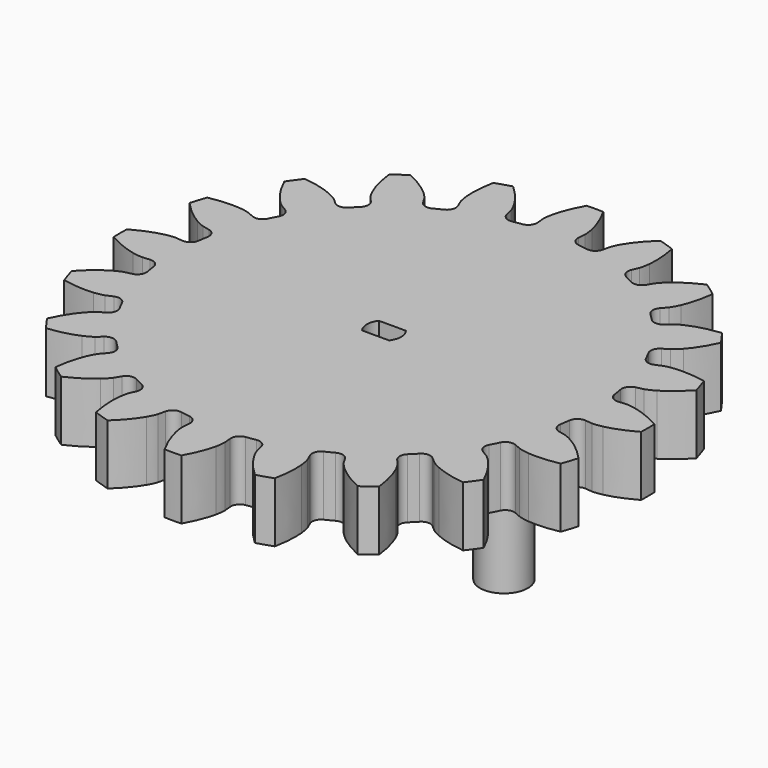
from build123d import *

# Parameters (mm, degrees)
PAD_DEPTH    = 10
POCKET_DEPTH = 10
SKETCH002_R  = 4
PAD001_DEPTH = 20
SKETCH003_R  = 4
PAD002_DEPTH = 20


with BuildPart() as part:
    # InvoluteGear → Pad (new body)
    with BuildSketch(Plane.XY):
        with BuildLine():
            Line((36.31006, -3.402875), (37.495418, -3.510949))
            add(Edge.make_bspline(
                [(37.495418, -3.510949), (37.684354, -3.516987), (38.253052, -3.51208), (39.201904, -3.30664)],
                knots=[0, 0, 0, 0, 1, 1, 1, 1], degree=3))
            add(Edge.make_bspline(
                [(39.201904, -3.30664), (40.336938, -3.057111), (41.97033, -2.52294), (43.982486, -1.38787)],
                knots=[0, 0, 0, 0, 1, 1, 1, 1], degree=3))
            ThreePointArc((43.982486, -1.38787), (44.00438, 0), (43.982486, 1.38787))
            add(Edge.make_bspline(
                [(43.982486, 1.38787), (41.97033, 2.52294), (40.336938, 3.057111), (39.201904, 3.30664)],
                knots=[0, 0, 0, 0, 1, 1, 1, 1], degree=3))
            add(Edge.make_bspline(
                [(39.201904, 3.30664), (38.253052, 3.51208), (37.684354, 3.516987), (37.495418, 3.510949)],
                knots=[0, 0, 0, 0, 1, 1, 1, 1], degree=3))
            Line((37.495418, 3.510949), (36.31006, 3.402875))
            ThreePointArc((36.31006, 3.402875), (35.237448, 3.721526), (34.683818, 4.693908))
            ThreePointArc((34.683818, 4.693908), (34.569092, 5.475206), (34.436768, 6.253717))
            ThreePointArc((34.436768, 6.253717), (34.662819, 7.349589), (35.584465, 7.984099))
            Line((35.584465, 7.984099), (36.745204, 8.247611))
            add(Edge.make_bspline(
                [(36.745204, 8.247611), (36.926759, 8.300253), (37.466107, 8.480657), (38.305035, 8.969253)],
                knots=[0, 0, 0, 0, 1, 1, 1, 1], degree=3))
            add(Edge.make_bspline(
                [(38.305035, 8.969253), (39.307406, 9.557314), (40.695787, 10.570086), (42.258705, 12.271393)],
                knots=[0, 0, 0, 0, 1, 1, 1, 1], degree=3))
            ThreePointArc((42.258705, 12.271393), (41.850652, 13.598101), (41.400954, 14.911278))
            add(Edge.make_bspline(
                [(41.400954, 14.911278), (39.136524, 15.369004), (37.418008, 15.372284), (36.261419, 15.258856)],
                knots=[0, 0, 0, 0, 1, 1, 1, 1], degree=3))
            add(Edge.make_bspline(
                [(36.261419, 15.258856), (35.295522, 15.161029), (34.753141, 14.989959), (34.575319, 14.925832)],
                knots=[0, 0, 0, 0, 1, 1, 1, 1], degree=3))
            Line((34.575319, 14.925832), (33.481373, 14.456752))
            ThreePointArc((33.481373, 14.456752), (32.36279, 14.428352), (31.535774, 15.182061))
            ThreePointArc((31.535774, 15.182061), (31.185228, 15.889667), (30.818808, 16.589185))
            ThreePointArc((30.818808, 16.589185), (30.695152, 17.701275), (31.375615, 18.589534))
            Line((31.375615, 18.589534), (32.398114, 19.198837))
            add(Edge.make_bspline(
                [(32.398114, 19.198837), (32.554515, 19.305005), (33.011718, 19.643248), (33.658601, 20.367173)],
                knots=[0, 0, 0, 0, 1, 1, 1, 1], degree=3))
            add(Edge.make_bspline(
                [(33.658601, 20.367173), (34.430193, 21.236202), (35.437657, 22.628439), (36.398348, 24.729446)],
                knots=[0, 0, 0, 0, 1, 1, 1, 1], degree=3))
            ThreePointArc((36.398348, 24.729446), (35.600291, 25.865125), (34.766809, 26.975067))
            add(Edge.make_bspline(
                [(34.766809, 26.975067), (32.471763, 26.710642), (30.836343, 26.182712), (29.771413, 25.717429)],
                knots=[0, 0, 0, 0, 1, 1, 1, 1], degree=3))
            add(Edge.make_bspline(
                [(29.771413, 25.717429), (28.883021, 25.325912), (28.42005, 24.995609), (28.270747, 24.879671)],
                knots=[0, 0, 0, 0, 1, 1, 1, 1], degree=3))
            Line((28.270747, 24.879671), (27.375296, 24.095501))
            ThreePointArc((27.375296, 24.095501), (26.320236, 23.72283), (25.300788, 24.184088))
            ThreePointArc((25.300788, 24.184088), (24.748737, 24.748737), (24.184088, 25.300788))
            ThreePointArc((24.184088, 25.300788), (23.72283, 26.320236), (24.095501, 27.375296))
            Line((24.095501, 27.375296), (24.879671, 28.270747))
            add(Edge.make_bspline(
                [(24.879671, 28.270747), (24.995609, 28.42005), (25.325912, 28.883021), (25.717429, 29.771413)],
                knots=[0, 0, 0, 0, 1, 1, 1, 1], degree=3))
            add(Edge.make_bspline(
                [(25.717429, 29.771413), (26.182712, 30.836343), (26.710642, 32.471763), (26.975067, 34.766809)],
                knots=[0, 0, 0, 0, 1, 1, 1, 1], degree=3))
            ThreePointArc((26.975067, 34.766809), (25.865125, 35.600291), (24.729446, 36.398348))
            add(Edge.make_bspline(
                [(24.729446, 36.398348), (22.628439, 35.437657), (21.236202, 34.430193), (20.367173, 33.658601)],
                knots=[0, 0, 0, 0, 1, 1, 1, 1], degree=3))
            add(Edge.make_bspline(
                [(20.367173, 33.658601), (19.643248, 33.011718), (19.305005, 32.554515), (19.198837, 32.398114)],
                knots=[0, 0, 0, 0, 1, 1, 1, 1], degree=3))
            Line((19.198837, 32.398114), (18.589534, 31.375615))
            ThreePointArc((18.589534, 31.375615), (17.701275, 30.695152), (16.589185, 30.818808))
            ThreePointArc((16.589185, 30.818808), (15.889667, 31.185228), (15.182061, 31.535774))
            ThreePointArc((15.182061, 31.535774), (14.428352, 32.36279), (14.456752, 33.481373))
            Line((14.456752, 33.481373), (14.925832, 34.575319))
            add(Edge.make_bspline(
                [(14.925832, 34.575319), (14.989959, 34.753141), (15.161029, 35.295522), (15.258856, 36.261419)],
                knots=[0, 0, 0, 0, 1, 1, 1, 1], degree=3))
            add(Edge.make_bspline(
                [(15.258856, 36.261419), (15.372284, 37.418008), (15.369004, 39.136524), (14.911278, 41.400954)],
                knots=[0, 0, 0, 0, 1, 1, 1, 1], degree=3))
            ThreePointArc((14.911278, 41.400954), (13.598101, 41.850652), (12.271393, 42.258705))
            add(Edge.make_bspline(
                [(12.271393, 42.258705), (10.570086, 40.695787), (9.557314, 39.307406), (8.969253, 38.305035)],
                knots=[0, 0, 0, 0, 1, 1, 1, 1], degree=3))
            add(Edge.make_bspline(
                [(8.969253, 38.305035), (8.480657, 37.466107), (8.300253, 36.926759), (8.247611, 36.745204)],
                knots=[0, 0, 0, 0, 1, 1, 1, 1], degree=3))
            Line((8.247611, 36.745204), (7.984099, 35.584465))
            ThreePointArc((7.984099, 35.584465), (7.349589, 34.662819), (6.253717, 34.436768))
            ThreePointArc((6.253717, 34.436768), (5.475206, 34.569092), (4.693908, 34.683818))
            ThreePointArc((4.693908, 34.683818), (3.721526, 35.237448), (3.402875, 36.31006))
            Line((3.402875, 36.31006), (3.510949, 37.495418))
            add(Edge.make_bspline(
                [(3.510949, 37.495418), (3.516987, 37.684354), (3.51208, 38.253052), (3.30664, 39.201904)],
                knots=[0, 0, 0, 0, 1, 1, 1, 1], degree=3))
            add(Edge.make_bspline(
                [(3.30664, 39.201904), (3.057111, 40.336938), (2.52294, 41.97033), (1.38787, 43.982486)],
                knots=[0, 0, 0, 0, 1, 1, 1, 1], degree=3))
            ThreePointArc((1.38787, 43.982486), (0, 44.00438), (-1.38787, 43.982486))
            add(Edge.make_bspline(
                [(-1.38787, 43.982486), (-2.52294, 41.97033), (-3.057111, 40.336938), (-3.30664, 39.201904)],
                knots=[0, 0, 0, 0, 1, 1, 1, 1], degree=3))
            add(Edge.make_bspline(
                [(-3.30664, 39.201904), (-3.51208, 38.253052), (-3.516987, 37.684354), (-3.510949, 37.495418)],
                knots=[0, 0, 0, 0, 1, 1, 1, 1], degree=3))
            Line((-3.510949, 37.495418), (-3.402875, 36.31006))
            ThreePointArc((-3.402875, 36.31006), (-3.721526, 35.237448), (-4.693908, 34.683818))
            ThreePointArc((-4.693908, 34.683818), (-5.475206, 34.569092), (-6.253717, 34.436768))
            ThreePointArc((-6.253717, 34.436768), (-7.349589, 34.662819), (-7.984099, 35.584465))
            Line((-7.984099, 35.584465), (-8.247611, 36.745204))
            add(Edge.make_bspline(
                [(-8.247611, 36.745204), (-8.300253, 36.926759), (-8.480657, 37.466107), (-8.969253, 38.305035)],
                knots=[0, 0, 0, 0, 1, 1, 1, 1], degree=3))
            add(Edge.make_bspline(
                [(-8.969253, 38.305035), (-9.557314, 39.307406), (-10.570086, 40.695787), (-12.271393, 42.258705)],
                knots=[0, 0, 0, 0, 1, 1, 1, 1], degree=3))
            ThreePointArc((-12.271393, 42.258705), (-13.598101, 41.850652), (-14.911278, 41.400954))
            add(Edge.make_bspline(
                [(-14.911278, 41.400954), (-15.369004, 39.136524), (-15.372284, 37.418008), (-15.258856, 36.261419)],
                knots=[0, 0, 0, 0, 1, 1, 1, 1], degree=3))
            add(Edge.make_bspline(
                [(-15.258856, 36.261419), (-15.161029, 35.295522), (-14.989959, 34.753141), (-14.925832, 34.575319)],
                knots=[0, 0, 0, 0, 1, 1, 1, 1], degree=3))
            Line((-14.925832, 34.575319), (-14.456752, 33.481373))
            ThreePointArc((-14.456752, 33.481373), (-14.428352, 32.36279), (-15.182061, 31.535774))
            ThreePointArc((-15.182061, 31.535774), (-15.889667, 31.185228), (-16.589185, 30.818808))
            ThreePointArc((-16.589185, 30.818808), (-17.701275, 30.695152), (-18.589534, 31.375615))
            Line((-18.589534, 31.375615), (-19.198837, 32.398114))
            add(Edge.make_bspline(
                [(-19.198837, 32.398114), (-19.305005, 32.554515), (-19.643248, 33.011718), (-20.367173, 33.658601)],
                knots=[0, 0, 0, 0, 1, 1, 1, 1], degree=3))
            add(Edge.make_bspline(
                [(-20.367173, 33.658601), (-21.236202, 34.430193), (-22.628439, 35.437657), (-24.729446, 36.398348)],
                knots=[0, 0, 0, 0, 1, 1, 1, 1], degree=3))
            ThreePointArc((-24.729446, 36.398348), (-25.865125, 35.600291), (-26.975067, 34.766809))
            add(Edge.make_bspline(
                [(-26.975067, 34.766809), (-26.710642, 32.471763), (-26.182712, 30.836343), (-25.717429, 29.771413)],
                knots=[0, 0, 0, 0, 1, 1, 1, 1], degree=3))
            add(Edge.make_bspline(
                [(-25.717429, 29.771413), (-25.325912, 28.883021), (-24.995609, 28.42005), (-24.879671, 28.270747)],
                knots=[0, 0, 0, 0, 1, 1, 1, 1], degree=3))
            Line((-24.879671, 28.270747), (-24.095501, 27.375296))
            ThreePointArc((-24.095501, 27.375296), (-23.72283, 26.320236), (-24.184088, 25.300788))
            ThreePointArc((-24.184088, 25.300788), (-24.748737, 24.748737), (-25.300788, 24.184088))
            ThreePointArc((-25.300788, 24.184088), (-26.320236, 23.72283), (-27.375296, 24.095501))
            Line((-27.375296, 24.095501), (-28.270747, 24.879671))
            add(Edge.make_bspline(
                [(-28.270747, 24.879671), (-28.42005, 24.995609), (-28.883021, 25.325912), (-29.771413, 25.717429)],
                knots=[0, 0, 0, 0, 1, 1, 1, 1], degree=3))
            add(Edge.make_bspline(
                [(-29.771413, 25.717429), (-30.836343, 26.182712), (-32.471763, 26.710642), (-34.766809, 26.975067)],
                knots=[0, 0, 0, 0, 1, 1, 1, 1], degree=3))
            ThreePointArc((-34.766809, 26.975067), (-35.600291, 25.865125), (-36.398348, 24.729446))
            add(Edge.make_bspline(
                [(-36.398348, 24.729446), (-35.437657, 22.628439), (-34.430193, 21.236202), (-33.658601, 20.367173)],
                knots=[0, 0, 0, 0, 1, 1, 1, 1], degree=3))
            add(Edge.make_bspline(
                [(-33.658601, 20.367173), (-33.011718, 19.643248), (-32.554515, 19.305005), (-32.398114, 19.198837)],
                knots=[0, 0, 0, 0, 1, 1, 1, 1], degree=3))
            Line((-32.398114, 19.198837), (-31.375615, 18.589534))
            ThreePointArc((-31.375615, 18.589534), (-30.695152, 17.701275), (-30.818808, 16.589185))
            ThreePointArc((-30.818808, 16.589185), (-31.185228, 15.889667), (-31.535774, 15.182061))
            ThreePointArc((-31.535774, 15.182061), (-32.36279, 14.428352), (-33.481373, 14.456752))
            Line((-33.481373, 14.456752), (-34.575319, 14.925832))
            add(Edge.make_bspline(
                [(-34.575319, 14.925832), (-34.753141, 14.989959), (-35.295522, 15.161029), (-36.261419, 15.258856)],
                knots=[0, 0, 0, 0, 1, 1, 1, 1], degree=3))
            add(Edge.make_bspline(
                [(-36.261419, 15.258856), (-37.418008, 15.372284), (-39.136524, 15.369004), (-41.400954, 14.911278)],
                knots=[0, 0, 0, 0, 1, 1, 1, 1], degree=3))
            ThreePointArc((-41.400954, 14.911278), (-41.850652, 13.598101), (-42.258705, 12.271393))
            add(Edge.make_bspline(
                [(-42.258705, 12.271393), (-40.695787, 10.570086), (-39.307406, 9.557314), (-38.305035, 8.969253)],
                knots=[0, 0, 0, 0, 1, 1, 1, 1], degree=3))
            add(Edge.make_bspline(
                [(-38.305035, 8.969253), (-37.466107, 8.480657), (-36.926759, 8.300253), (-36.745204, 8.247611)],
                knots=[0, 0, 0, 0, 1, 1, 1, 1], degree=3))
            Line((-36.745204, 8.247611), (-35.584465, 7.984099))
            ThreePointArc((-35.584465, 7.984099), (-34.662819, 7.349589), (-34.436768, 6.253717))
            ThreePointArc((-34.436768, 6.253717), (-34.569092, 5.475206), (-34.683818, 4.693908))
            ThreePointArc((-34.683818, 4.693908), (-35.237448, 3.721526), (-36.31006, 3.402875))
            Line((-36.31006, 3.402875), (-37.495418, 3.510949))
            add(Edge.make_bspline(
                [(-37.495418, 3.510949), (-37.684354, 3.516987), (-38.253052, 3.51208), (-39.201904, 3.30664)],
                knots=[0, 0, 0, 0, 1, 1, 1, 1], degree=3))
            add(Edge.make_bspline(
                [(-39.201904, 3.30664), (-40.336938, 3.057111), (-41.97033, 2.52294), (-43.982486, 1.38787)],
                knots=[0, 0, 0, 0, 1, 1, 1, 1], degree=3))
            ThreePointArc((-43.982486, 1.38787), (-44.00438, 0), (-43.982486, -1.38787))
            add(Edge.make_bspline(
                [(-43.982486, -1.38787), (-41.97033, -2.52294), (-40.336938, -3.057111), (-39.201904, -3.30664)],
                knots=[0, 0, 0, 0, 1, 1, 1, 1], degree=3))
            add(Edge.make_bspline(
                [(-39.201904, -3.30664), (-38.253052, -3.51208), (-37.684354, -3.516987), (-37.495418, -3.510949)],
                knots=[0, 0, 0, 0, 1, 1, 1, 1], degree=3))
            Line((-37.495418, -3.510949), (-36.31006, -3.402875))
            ThreePointArc((-36.31006, -3.402875), (-35.237448, -3.721526), (-34.683818, -4.693908))
            ThreePointArc((-34.683818, -4.693908), (-34.569092, -5.475206), (-34.436768, -6.253717))
            ThreePointArc((-34.436768, -6.253717), (-34.662819, -7.349589), (-35.584465, -7.984099))
            Line((-35.584465, -7.984099), (-36.745204, -8.247611))
            add(Edge.make_bspline(
                [(-36.745204, -8.247611), (-36.926759, -8.300253), (-37.466107, -8.480657), (-38.305035, -8.969253)],
                knots=[0, 0, 0, 0, 1, 1, 1, 1], degree=3))
            add(Edge.make_bspline(
                [(-38.305035, -8.969253), (-39.307406, -9.557314), (-40.695787, -10.570086), (-42.258705, -12.271393)],
                knots=[0, 0, 0, 0, 1, 1, 1, 1], degree=3))
            ThreePointArc((-42.258705, -12.271393), (-41.850652, -13.598101), (-41.400954, -14.911278))
            add(Edge.make_bspline(
                [(-41.400954, -14.911278), (-39.136524, -15.369004), (-37.418008, -15.372284), (-36.261419, -15.258856)],
                knots=[0, 0, 0, 0, 1, 1, 1, 1], degree=3))
            add(Edge.make_bspline(
                [(-36.261419, -15.258856), (-35.295522, -15.161029), (-34.753141, -14.989959), (-34.575319, -14.925832)],
                knots=[0, 0, 0, 0, 1, 1, 1, 1], degree=3))
            Line((-34.575319, -14.925832), (-33.481373, -14.456752))
            ThreePointArc((-33.481373, -14.456752), (-32.36279, -14.428352), (-31.535774, -15.182061))
            ThreePointArc((-31.535774, -15.182061), (-31.185228, -15.889667), (-30.818808, -16.589185))
            ThreePointArc((-30.818808, -16.589185), (-30.695152, -17.701275), (-31.375615, -18.589534))
            Line((-31.375615, -18.589534), (-32.398114, -19.198837))
            add(Edge.make_bspline(
                [(-32.398114, -19.198837), (-32.554515, -19.305005), (-33.011718, -19.643248), (-33.658601, -20.367173)],
                knots=[0, 0, 0, 0, 1, 1, 1, 1], degree=3))
            add(Edge.make_bspline(
                [(-33.658601, -20.367173), (-34.430193, -21.236202), (-35.437657, -22.628439), (-36.398348, -24.729446)],
                knots=[0, 0, 0, 0, 1, 1, 1, 1], degree=3))
            ThreePointArc((-36.398348, -24.729446), (-35.600291, -25.865125), (-34.766809, -26.975067))
            add(Edge.make_bspline(
                [(-34.766809, -26.975067), (-32.471763, -26.710642), (-30.836343, -26.182712), (-29.771413, -25.717429)],
                knots=[0, 0, 0, 0, 1, 1, 1, 1], degree=3))
            add(Edge.make_bspline(
                [(-29.771413, -25.717429), (-28.883021, -25.325912), (-28.42005, -24.995609), (-28.270747, -24.879671)],
                knots=[0, 0, 0, 0, 1, 1, 1, 1], degree=3))
            Line((-28.270747, -24.879671), (-27.375296, -24.095501))
            ThreePointArc((-27.375296, -24.095501), (-26.320236, -23.72283), (-25.300788, -24.184088))
            ThreePointArc((-25.300788, -24.184088), (-24.748737, -24.748737), (-24.184088, -25.300788))
            ThreePointArc((-24.184088, -25.300788), (-23.72283, -26.320236), (-24.095501, -27.375296))
            Line((-24.095501, -27.375296), (-24.879671, -28.270747))
            add(Edge.make_bspline(
                [(-24.879671, -28.270747), (-24.995609, -28.42005), (-25.325912, -28.883021), (-25.717429, -29.771413)],
                knots=[0, 0, 0, 0, 1, 1, 1, 1], degree=3))
            add(Edge.make_bspline(
                [(-25.717429, -29.771413), (-26.182712, -30.836343), (-26.710642, -32.471763), (-26.975067, -34.766809)],
                knots=[0, 0, 0, 0, 1, 1, 1, 1], degree=3))
            ThreePointArc((-26.975067, -34.766809), (-25.865125, -35.600291), (-24.729446, -36.398348))
            add(Edge.make_bspline(
                [(-24.729446, -36.398348), (-22.628439, -35.437657), (-21.236202, -34.430193), (-20.367173, -33.658601)],
                knots=[0, 0, 0, 0, 1, 1, 1, 1], degree=3))
            add(Edge.make_bspline(
                [(-20.367173, -33.658601), (-19.643248, -33.011718), (-19.305005, -32.554515), (-19.198837, -32.398114)],
                knots=[0, 0, 0, 0, 1, 1, 1, 1], degree=3))
            Line((-19.198837, -32.398114), (-18.589534, -31.375615))
            ThreePointArc((-18.589534, -31.375615), (-17.701275, -30.695152), (-16.589185, -30.818808))
            ThreePointArc((-16.589185, -30.818808), (-15.889667, -31.185228), (-15.182061, -31.535774))
            ThreePointArc((-15.182061, -31.535774), (-14.428352, -32.36279), (-14.456752, -33.481373))
            Line((-14.456752, -33.481373), (-14.925832, -34.575319))
            add(Edge.make_bspline(
                [(-14.925832, -34.575319), (-14.989959, -34.753141), (-15.161029, -35.295522), (-15.258856, -36.261419)],
                knots=[0, 0, 0, 0, 1, 1, 1, 1], degree=3))
            add(Edge.make_bspline(
                [(-15.258856, -36.261419), (-15.372284, -37.418008), (-15.369004, -39.136524), (-14.911278, -41.400954)],
                knots=[0, 0, 0, 0, 1, 1, 1, 1], degree=3))
            ThreePointArc((-14.911278, -41.400954), (-13.598101, -41.850652), (-12.271393, -42.258705))
            add(Edge.make_bspline(
                [(-12.271393, -42.258705), (-10.570086, -40.695787), (-9.557314, -39.307406), (-8.969253, -38.305035)],
                knots=[0, 0, 0, 0, 1, 1, 1, 1], degree=3))
            add(Edge.make_bspline(
                [(-8.969253, -38.305035), (-8.480657, -37.466107), (-8.300253, -36.926759), (-8.247611, -36.745204)],
                knots=[0, 0, 0, 0, 1, 1, 1, 1], degree=3))
            Line((-8.247611, -36.745204), (-7.984099, -35.584465))
            ThreePointArc((-7.984099, -35.584465), (-7.349589, -34.662819), (-6.253717, -34.436768))
            ThreePointArc((-6.253717, -34.436768), (-5.475206, -34.569092), (-4.693908, -34.683818))
            ThreePointArc((-4.693908, -34.683818), (-3.721526, -35.237448), (-3.402875, -36.31006))
            Line((-3.402875, -36.31006), (-3.510949, -37.495418))
            add(Edge.make_bspline(
                [(-3.510949, -37.495418), (-3.516987, -37.684354), (-3.51208, -38.253052), (-3.30664, -39.201904)],
                knots=[0, 0, 0, 0, 1, 1, 1, 1], degree=3))
            add(Edge.make_bspline(
                [(-3.30664, -39.201904), (-3.057111, -40.336938), (-2.52294, -41.97033), (-1.38787, -43.982486)],
                knots=[0, 0, 0, 0, 1, 1, 1, 1], degree=3))
            ThreePointArc((-1.38787, -43.982486), (0, -44.00438), (1.38787, -43.982486))
            add(Edge.make_bspline(
                [(1.38787, -43.982486), (2.52294, -41.97033), (3.057111, -40.336938), (3.30664, -39.201904)],
                knots=[0, 0, 0, 0, 1, 1, 1, 1], degree=3))
            add(Edge.make_bspline(
                [(3.30664, -39.201904), (3.51208, -38.253052), (3.516987, -37.684354), (3.510949, -37.495418)],
                knots=[0, 0, 0, 0, 1, 1, 1, 1], degree=3))
            Line((3.510949, -37.495418), (3.402875, -36.31006))
            ThreePointArc((3.402875, -36.31006), (3.721526, -35.237448), (4.693908, -34.683818))
            ThreePointArc((4.693908, -34.683818), (5.475206, -34.569092), (6.253717, -34.436768))
            ThreePointArc((6.253717, -34.436768), (7.349589, -34.662819), (7.984099, -35.584465))
            Line((7.984099, -35.584465), (8.247611, -36.745204))
            add(Edge.make_bspline(
                [(8.247611, -36.745204), (8.300253, -36.926759), (8.480657, -37.466107), (8.969253, -38.305035)],
                knots=[0, 0, 0, 0, 1, 1, 1, 1], degree=3))
            add(Edge.make_bspline(
                [(8.969253, -38.305035), (9.557314, -39.307406), (10.570086, -40.695787), (12.271393, -42.258705)],
                knots=[0, 0, 0, 0, 1, 1, 1, 1], degree=3))
            ThreePointArc((12.271393, -42.258705), (13.598101, -41.850652), (14.911278, -41.400954))
            add(Edge.make_bspline(
                [(14.911278, -41.400954), (15.369004, -39.136524), (15.372284, -37.418008), (15.258856, -36.261419)],
                knots=[0, 0, 0, 0, 1, 1, 1, 1], degree=3))
            add(Edge.make_bspline(
                [(15.258856, -36.261419), (15.161029, -35.295522), (14.989959, -34.753141), (14.925832, -34.575319)],
                knots=[0, 0, 0, 0, 1, 1, 1, 1], degree=3))
            Line((14.925832, -34.575319), (14.456752, -33.481373))
            ThreePointArc((14.456752, -33.481373), (14.428352, -32.36279), (15.182061, -31.535774))
            ThreePointArc((15.182061, -31.535774), (15.889667, -31.185228), (16.589185, -30.818808))
            ThreePointArc((16.589185, -30.818808), (17.701275, -30.695152), (18.589534, -31.375615))
            Line((18.589534, -31.375615), (19.198837, -32.398114))
            add(Edge.make_bspline(
                [(19.198837, -32.398114), (19.305005, -32.554515), (19.643248, -33.011718), (20.367173, -33.658601)],
                knots=[0, 0, 0, 0, 1, 1, 1, 1], degree=3))
            add(Edge.make_bspline(
                [(20.367173, -33.658601), (21.236202, -34.430193), (22.628439, -35.437657), (24.729446, -36.398348)],
                knots=[0, 0, 0, 0, 1, 1, 1, 1], degree=3))
            ThreePointArc((24.729446, -36.398348), (25.865125, -35.600291), (26.975067, -34.766809))
            add(Edge.make_bspline(
                [(26.975067, -34.766809), (26.710642, -32.471763), (26.182712, -30.836343), (25.717429, -29.771413)],
                knots=[0, 0, 0, 0, 1, 1, 1, 1], degree=3))
            add(Edge.make_bspline(
                [(25.717429, -29.771413), (25.325912, -28.883021), (24.995609, -28.42005), (24.879671, -28.270747)],
                knots=[0, 0, 0, 0, 1, 1, 1, 1], degree=3))
            Line((24.879671, -28.270747), (24.095501, -27.375296))
            ThreePointArc((24.095501, -27.375296), (23.72283, -26.320236), (24.184088, -25.300788))
            ThreePointArc((24.184088, -25.300788), (24.748737, -24.748737), (25.300788, -24.184088))
            ThreePointArc((25.300788, -24.184088), (26.320236, -23.72283), (27.375296, -24.095501))
            Line((27.375296, -24.095501), (28.270747, -24.879671))
            add(Edge.make_bspline(
                [(28.270747, -24.879671), (28.42005, -24.995609), (28.883021, -25.325912), (29.771413, -25.717429)],
                knots=[0, 0, 0, 0, 1, 1, 1, 1], degree=3))
            add(Edge.make_bspline(
                [(29.771413, -25.717429), (30.836343, -26.182712), (32.471763, -26.710642), (34.766809, -26.975067)],
                knots=[0, 0, 0, 0, 1, 1, 1, 1], degree=3))
            ThreePointArc((34.766809, -26.975067), (35.600291, -25.865125), (36.398348, -24.729446))
            add(Edge.make_bspline(
                [(36.398348, -24.729446), (35.437657, -22.628439), (34.430193, -21.236202), (33.658601, -20.367173)],
                knots=[0, 0, 0, 0, 1, 1, 1, 1], degree=3))
            add(Edge.make_bspline(
                [(33.658601, -20.367173), (33.011718, -19.643248), (32.554515, -19.305005), (32.398114, -19.198837)],
                knots=[0, 0, 0, 0, 1, 1, 1, 1], degree=3))
            Line((32.398114, -19.198837), (31.375615, -18.589534))
            ThreePointArc((31.375615, -18.589534), (30.695152, -17.701275), (30.818808, -16.589185))
            ThreePointArc((30.818808, -16.589185), (31.185228, -15.889667), (31.535774, -15.182061))
            ThreePointArc((31.535774, -15.182061), (32.36279, -14.428352), (33.481373, -14.456752))
            Line((33.481373, -14.456752), (34.575319, -14.925832))
            add(Edge.make_bspline(
                [(34.575319, -14.925832), (34.753141, -14.989959), (35.295522, -15.161029), (36.261419, -15.258856)],
                knots=[0, 0, 0, 0, 1, 1, 1, 1], degree=3))
            add(Edge.make_bspline(
                [(36.261419, -15.258856), (37.418008, -15.372284), (39.136524, -15.369004), (41.400954, -14.911278)],
                knots=[0, 0, 0, 0, 1, 1, 1, 1], degree=3))
            ThreePointArc((41.400954, -14.911278), (41.850652, -13.598101), (42.258705, -12.271393))
            add(Edge.make_bspline(
                [(42.258705, -12.271393), (40.695787, -10.570086), (39.307406, -9.557314), (38.305035, -8.969253)],
                knots=[0, 0, 0, 0, 1, 1, 1, 1], degree=3))
            add(Edge.make_bspline(
                [(38.305035, -8.969253), (37.466107, -8.480657), (36.926759, -8.300253), (36.745204, -8.247611)],
                knots=[0, 0, 0, 0, 1, 1, 1, 1], degree=3))
            Line((36.745204, -8.247611), (35.584465, -7.984099))
            ThreePointArc((35.584465, -7.984099), (34.662819, -7.349589), (34.436768, -6.253717))
            ThreePointArc((34.436768, -6.253717), (34.569092, -5.475206), (34.683818, -4.693908))
            ThreePointArc((34.683818, -4.693908), (35.237448, -3.721526), (36.31006, -3.402875))
        make_face()
    extrude(amount=PAD_DEPTH)

    # Sketch001 → Pocket (cut)
    with BuildSketch(Plane.XY):
        with BuildLine():
            Line((-2.25, 1.75), (2.25, 1.75))
            ThreePointArc((2.25, -1.75), (2.850439, 0), (2.25, 1.75))
            Line((-2.25, -1.75), (2.25, -1.75))
            ThreePointArc((-2.25, 1.75), (-2.850439, 0), (-2.25, -1.75))
        make_face()
    extrude(amount=POCKET_DEPTH, mode=Mode.SUBTRACT)

    # Sketch002 → Pad001 (join)
    with BuildSketch(Plane.XY):
        with Locations((-20, 0)):
            Circle(SKETCH002_R)
    extrude(amount=-PAD001_DEPTH)

    # Sketch003 → Pad002 (join)
    with BuildSketch(Plane.XY):
        with Locations((20, 0)):
            Circle(SKETCH003_R)
    extrude(amount=-PAD002_DEPTH)


solid = part.part
